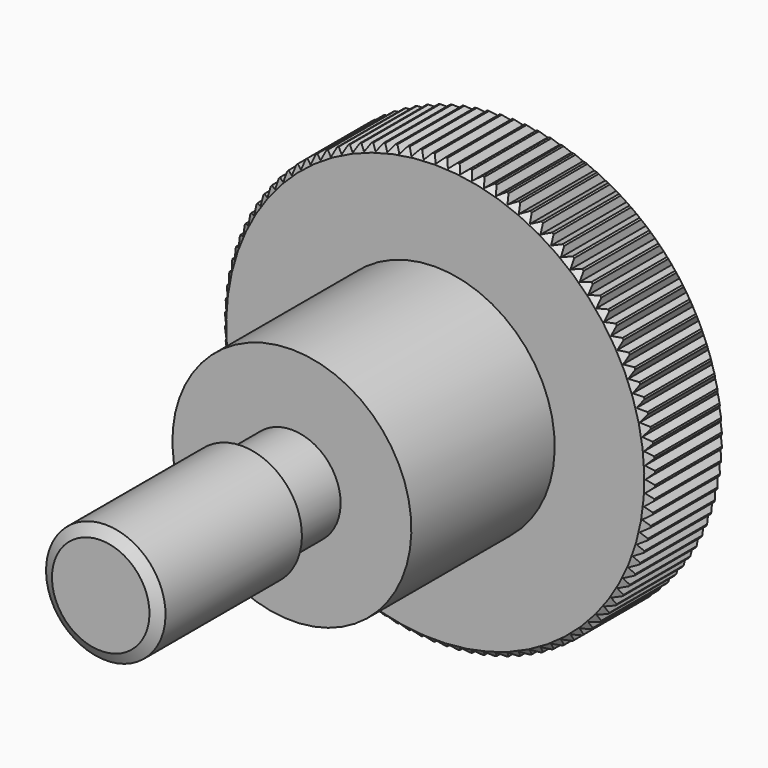
from build123d import *

# Parameters (mm, degrees)
POCKET_DEPTH       = 176.282657
POLARPATTERN_COUNT = 108


with BuildPart() as part:
    # Sketch → Revolution (revolve)
    with BuildSketch(Plane.YZ):
        Polygon((0, 0), (0, 4.08), (0.531162, 5), (14.8, 5), (15.331162, 4.08), (20, 4.08), (20, 10), (35, 10), (35, 17.5), (35.5, 18), (42.5, 18), (43, 17.5), (43, 0), align=None)
    revolve(axis=Axis((0, 0, 0), (0, 1, 0)))

    # Sketch001 → Pocket (cut, through all)
    with BuildSketch(Plane.ZX.offset(43)):
        Polygon((-0.5, 18.05), (0, 17.55), (0.5, 18.05), align=None)
    pocket = extrude(amount=-POCKET_DEPTH, mode=Mode.SUBTRACT)

    # PolarPattern: Pocket ×108 about axis
    polarpattern_axis = Axis((0, 43, 0), (0, 1, 0))
    for i in range(1, POLARPATTERN_COUNT):
        add(pocket.rotate(polarpattern_axis, i * 360 / POLARPATTERN_COUNT), mode=Mode.SUBTRACT)


solid = part.part
